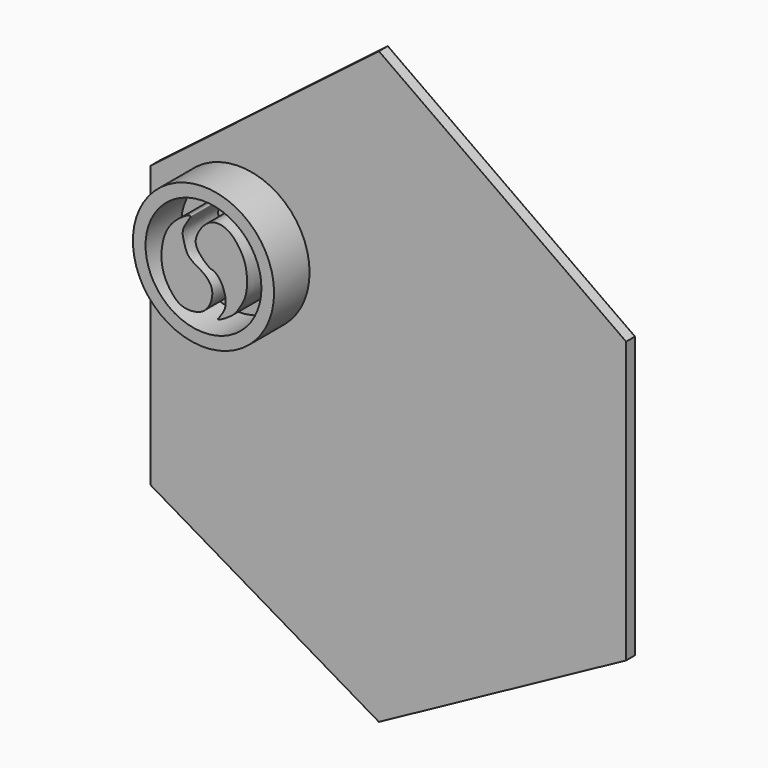
from build123d import *

# Parameters (mm, degrees)
F1_DEPTH  = 12.7
F2_DEPTH  = 2.54
F3_DEPTH  = 7.62
F4_DEPTH  = 2.54
F5_DEPTH  = 2.54
F6_DEPTH  = 2.54
F7_DEPTH  = 2.54
F8_DEPTH  = 2.54
F9_DEPTH  = 2.54
F10_R     = 16.173301128
F10_R_2   = 13.2732691709
F11_DEPTH = 10.16


with BuildPart() as f1:
    # F0 (on Front) → F1 (new body)
    with BuildSketch(Plane.XZ):
        Polygon((59.2296272516, 26.558874175), (0, 68.5641244054), (-54.7846257687, 26.558874175), (-54.7846257687, -40.5606217682), (0, -72.7868750691), (59.2296272516, -40.5606217682), align=None)
    extrude(amount=F1_DEPTH)

    # F2 (cut): a face of the model
    f2_faces = [f1.faces().sort_by_distance(p)[0] for p in [
        (1.9587071028, -12.7, -4.2659517496),
    ]]
    extrude(f2_faces, amount=-F2_DEPTH, mode=Mode.SUBTRACT)

    # F3 (cut): a face of the model
    f3_faces = [f1.faces().sort_by_distance(p)[0] for p in [
        (1.9587071028, -10.16, -4.2659517496),
    ]]
    extrude(f3_faces, amount=-F3_DEPTH, mode=Mode.SUBTRACT)

    # F4 (cut): a face of the model
    f4_faces = [f1.faces().sort_by_distance(p)[0] for p in [
        (29.6148136258, -1.27, 47.5614992902),
    ]]
    extrude(f4_faces, amount=-F4_DEPTH, mode=Mode.SUBTRACT)

    # F5 (cut): a face of the model
    f5_faces = [f1.faces().sort_by_distance(p)[0] for p in [
        (-27.3923128843, -1.27, 47.5614992902),
    ]]
    extrude(f5_faces, amount=-F5_DEPTH, mode=Mode.SUBTRACT)

    # F6 (cut): a face of the model
    f6_faces = [f1.faces().sort_by_distance(p)[0] for p in [
        (59.2296272516, -1.27, -7.0008737966),
    ]]
    extrude(f6_faces, amount=-F6_DEPTH, mode=Mode.SUBTRACT)

    # F7 (cut): a face of the model
    f7_faces = [f1.faces().sort_by_distance(p)[0] for p in [
        (-54.7846257687, -1.27, -7.0008737966),
    ]]
    extrude(f7_faces, amount=-F7_DEPTH, mode=Mode.SUBTRACT)

    # F8 (cut): a face of the model
    f8_faces = [f1.faces().sort_by_distance(p)[0] for p in [
        (-27.3923128843, -1.27, -56.6737484187),
    ]]
    extrude(f8_faces, amount=-F8_DEPTH, mode=Mode.SUBTRACT)

    # F9 (cut): a face of the model
    f9_faces = [f1.faces().sort_by_distance(p)[0] for p in [
        (29.6148136258, -1.27, -56.6737484187),
    ]]
    extrude(f9_faces, amount=-F9_DEPTH, mode=Mode.SUBTRACT)

    # F10 (on face) → F11 (join)
    with BuildSketch(Plane.XZ.offset(2.54)):
        with Locations((-32.0025384426, 15.63757658)):
            Circle(F10_R)
        with Locations((-32.0025384426, 15.63757658)):
            Circle(F10_R_2, mode=Mode.SUBTRACT)
        with BuildLine():
            add(Edge.make_bspline(
                [(-33.5961766541, 21.2412513793), (-33.1492776835, 22.5807073107), (-30.9008253001, 25.8515795844), (-26.4172585119, 25.3257909083), (-23.8187268917, 22.3823531071), (-22.1773049658, 19.3222183747), (-21.8666938493, 14.9030170423), (-22.4811159871, 12.0656202443), (-24.1113840842, 9.4382361214), (-25.1206009779, 7.9357990415), (-30.073349283, 4.9901899104), (-26.3944730083, 8.5551386268), (-27.1981324947, 12.5803540617), (-28.3513584816, 14.5701110117), (-29.6739604056, 15.7483599916), (-30.4871570995, 15.543927958), (-33.751302235, 18.5025468364), (-33.9314850499, 20.2362572996), (-33.5961766541, 21.2412513793)],
                knots=[0, 0, 0, 0, 0.0792911137, 0.1501065964, 0.2196050044, 0.2868269554, 0.361319848, 0.4232868285, 0.4837605091, 0.5381934016, 0.6059924585, 0.665205235, 0.7384846564, 0.7939319213, 0.8382116548, 0.8688404987, 0.94050786, 1, 1, 1, 1], degree=3))
        make_face()
        with BuildLine():
            add(Edge.make_bspline(
                [(-34.9833630025, 24.8904135078), (-35.168575554, 25.2164447888), (-39.7345110582, 22.6204650031), (-41.8664556921, 16.9916859993), (-41.5832281583, 11.3039533818), (-39.1242273338, 7.6554368419), (-36.9766990698, 5.735143943), (-33.2081987088, 5.7841669021), (-31.0308089727, 7.3164844395), (-29.9591991622, 9.6760169365), (-29.8732056251, 12.4014101557), (-31.9683798521, 14.4478650596), (-33.6520606287, 15.2926663792), (-35.8456473217, 16.7286638318), (-36.4557260431, 19.2623287104), (-37.2581020202, 21.8517411964), (-34.820944947, 24.6045075783), (-34.9833630025, 24.8904135078)],
                knots=[0, 0, 0, 0, 0.0765925653, 0.1712433684, 0.2581090796, 0.3341281069, 0.3955345086, 0.4645788585, 0.523706665, 0.582159146, 0.641530163, 0.7024599948, 0.7543504268, 0.8122325682, 0.8706612342, 0.9328338419, 1, 1, 1, 1], degree=3))
        make_face()
    extrude(amount=F11_DEPTH)


solid = f1.part
